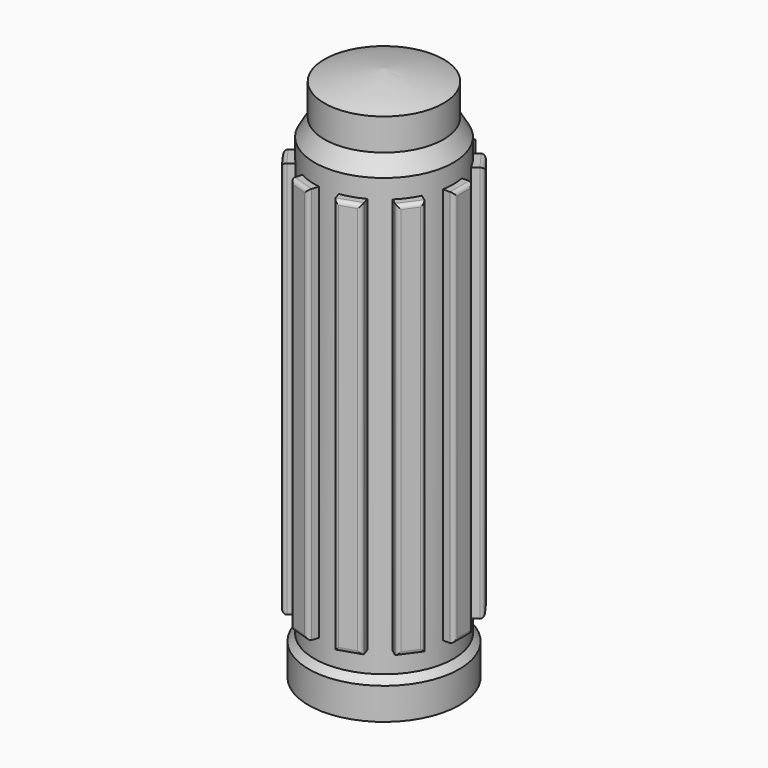
from build123d import *

# Parameters (mm, degrees)
F3_W     = 6
F3_H     = 100
F5_R     = 1
F6_COUNT = 10


with BuildPart() as f1:
    # F0 (on Front) → F1 (revolve)
    with BuildSketch(Plane.XZ):
        with BuildLine():
            ThreePointArc((15, 132.1177574078), (7.5811842684, 133.9813844391), (0, 135))
            Line((0, 135), (0, 127))
            Line((0, 127), (10.75, 127))
            Line((10.75, 127), (10.75, 0))
            Line((10.75, 0), (19, 0))
            Line((19, 0), (19, 8))
            Line((19, 8), (17.5, 9.7876303889))
            Line((17.5, 9.7876303889), (17.5, 119.7876303889))
            Line((17.5, 119.7876303889), (15, 124.1177574078))
            Line((15, 124.1177574078), (15, 132.1177574078))
        make_face()
    revolve(axis=Axis((0, 0, 82.5664177537), (0, 0, 1)))


with BuildPart() as f4:
    # F3 (on offset) → F4 (new body, up to the next surface of F1)
    with BuildSketch(Plane.YZ.offset(20)):
        with Locations((0, 65)):
            Rectangle(F3_W, F3_H)
    extrude(until=Until.NEXT, target=f1.part, dir=(-1, 0, 0))

    # F5
    f5_edges = [f4.edges().sort_by_distance(p)[0] for p in [
        (20, 3, 65),
        (20, 0, 115),
        (20, 0, 15),
        (20, -3, 65),
    ]]
    fillet(f5_edges, radius=F5_R)


with BuildPart() as f6_1:
    # F6: instance of F4
    add(f4.part.rotate(Axis((0, 0, 82.5664177537), (0, 0, 1)), 1 * 360 / F6_COUNT))


with BuildPart() as f6_2:
    # F6: instance of F4
    add(f4.part.rotate(Axis((0, 0, 82.5664177537), (0, 0, 1)), 2 * 360 / F6_COUNT))


with BuildPart() as f6_3:
    # F6: instance of F4
    add(f4.part.rotate(Axis((0, 0, 82.5664177537), (0, 0, 1)), 3 * 360 / F6_COUNT))


with BuildPart() as f6_4:
    # F6: instance of F4
    add(f4.part.rotate(Axis((0, 0, 82.5664177537), (0, 0, 1)), 4 * 360 / F6_COUNT))


with BuildPart() as f6_5:
    # F6: instance of F4
    add(f4.part.rotate(Axis((0, 0, 82.5664177537), (0, 0, 1)), 5 * 360 / F6_COUNT))


with BuildPart() as f6_6:
    # F6: instance of F4
    add(f4.part.rotate(Axis((0, 0, 82.5664177537), (0, 0, 1)), 6 * 360 / F6_COUNT))


with BuildPart() as f6_7:
    # F6: instance of F4
    add(f4.part.rotate(Axis((0, 0, 82.5664177537), (0, 0, 1)), 7 * 360 / F6_COUNT))


with BuildPart() as f6_8:
    # F6: instance of F4
    add(f4.part.rotate(Axis((0, 0, 82.5664177537), (0, 0, 1)), 8 * 360 / F6_COUNT))


with BuildPart() as f6_9:
    # F6: instance of F4
    add(f4.part.rotate(Axis((0, 0, 82.5664177537), (0, 0, 1)), 9 * 360 / F6_COUNT))


solid = Compound([f1.part, f4.part, f6_1.part, f6_2.part, f6_3.part, f6_4.part, f6_5.part, f6_6.part, f6_7.part, f6_8.part, f6_9.part])
